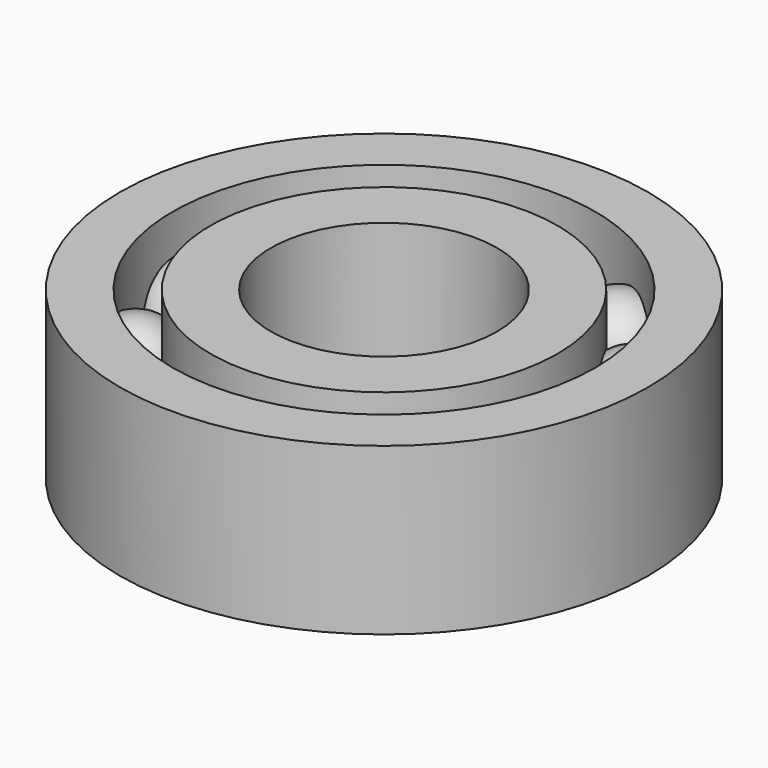
from build123d import *

# Parameters (mm, degrees)
F0_R     = 17.5
F0_R_2   = 14
F1_DEPTH = 11
F2_R     = 11.5
F2_R_2   = 7.5
F3_DEPTH = 11
F6_COUNT = 12
F6_ANGLE = 330


with BuildPart() as f1:
    # F0 (on Top) → F1 (new body)
    with BuildSketch(Plane.XY):
        Circle(F0_R)
        Circle(F0_R_2, mode=Mode.SUBTRACT)
    extrude(amount=F1_DEPTH)


with BuildPart() as f3:
    # F2 (on Top) → F3 (new body)
    with BuildSketch(Plane.XY):
        Circle(F2_R)
        Circle(F2_R_2, mode=Mode.SUBTRACT)
    extrude(amount=F3_DEPTH)


with BuildPart() as f5:
    # F4 (on Right) → F5 (revolve)
    with BuildSketch(Plane.YZ):
        with BuildLine():
            Line((-13, 2.5), (-13, 8.5))
            ThreePointArc((-13, 8.5), (-16, 5.5), (-13, 2.5))
        make_face()
    revolve(axis=Axis((0, -13, 5.5), (0, 0, -1)))


with BuildPart() as f6_1:
    # F6: instance of F5
    add(f5.part.rotate(Axis((0, 0, 11), (0, 0, 1)), 1 * F6_ANGLE / (F6_COUNT - 1)))


with BuildPart() as f6_2:
    # F6: instance of F5
    add(f5.part.rotate(Axis((0, 0, 11), (0, 0, 1)), 2 * F6_ANGLE / (F6_COUNT - 1)))


with BuildPart() as f6_3:
    # F6: instance of F5
    add(f5.part.rotate(Axis((0, 0, 11), (0, 0, 1)), 3 * F6_ANGLE / (F6_COUNT - 1)))


with BuildPart() as f6_4:
    # F6: instance of F5
    add(f5.part.rotate(Axis((0, 0, 11), (0, 0, 1)), 4 * F6_ANGLE / (F6_COUNT - 1)))


with BuildPart() as f6_5:
    # F6: instance of F5
    add(f5.part.rotate(Axis((0, 0, 11), (0, 0, 1)), 5 * F6_ANGLE / (F6_COUNT - 1)))


with BuildPart() as f6_6:
    # F6: instance of F5
    add(f5.part.rotate(Axis((0, 0, 11), (0, 0, 1)), 6 * F6_ANGLE / (F6_COUNT - 1)))


with BuildPart() as f6_7:
    # F6: instance of F5
    add(f5.part.rotate(Axis((0, 0, 11), (0, 0, 1)), 7 * F6_ANGLE / (F6_COUNT - 1)))


with BuildPart() as f6_8:
    # F6: instance of F5
    add(f5.part.rotate(Axis((0, 0, 11), (0, 0, 1)), 8 * F6_ANGLE / (F6_COUNT - 1)))


with BuildPart() as f6_9:
    # F6: instance of F5
    add(f5.part.rotate(Axis((0, 0, 11), (0, 0, 1)), 9 * F6_ANGLE / (F6_COUNT - 1)))


with BuildPart() as f6_10:
    # F6: instance of F5
    add(f5.part.rotate(Axis((0, 0, 11), (0, 0, 1)), 10 * F6_ANGLE / (F6_COUNT - 1)))


with BuildPart() as f6_11:
    # F6: instance of F5
    add(f5.part.rotate(Axis((0, 0, 11), (0, 0, 1)), 11 * F6_ANGLE / (F6_COUNT - 1)))


solid = Compound([f1.part, f3.part, f5.part, f6_1.part, f6_2.part, f6_3.part, f6_4.part, f6_5.part, f6_6.part, f6_7.part, f6_8.part, f6_9.part, f6_10.part, f6_11.part])
